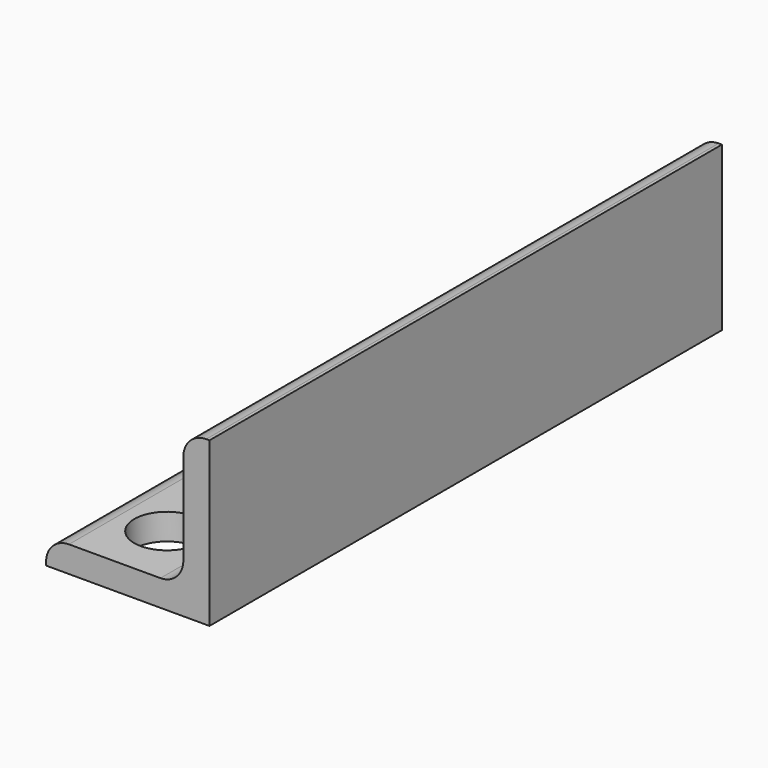
from build123d import *

# Parameters (mm, degrees)
PAD_DEPTH    = 98
SKETCH001_R  = 5
POCKET_DEPTH = 25.001


with BuildPart() as part:
    # Sketch → Pad (new body)
    with BuildSketch(Plane.XZ):
        with BuildLine():
            Line((0, 0), (-25, 0))
            Line((-25, 0), (-25, 0.5))
            ThreePointArc((-21.5, 4), (-23.974874, 2.974874), (-25, 0.5))
            Line((-21.5, 4), (-7.5, 4))
            ThreePointArc((-7.5, 4), (-5.025126, 5.025126), (-4, 7.5))
            Line((-4, 7.5), (-4, 21.5))
            ThreePointArc((-0.5, 25), (-2.974874, 23.974874), (-4, 21.5))
            Line((-0.5, 25), (0, 25))
            Line((0, 25), (0, 0))
        make_face()
    extrude(amount=PAD_DEPTH)

    # Sketch001 → Pocket (cut, through all)
    with BuildSketch(Plane.XY):
        with Locations((-14.5, -10)):
            Circle(SKETCH001_R)
        with Locations((-14.5, -34)):
            Circle(SKETCH001_R)
        with Locations((-14.5, -88)):
            Circle(SKETCH001_R)
        with Locations((-14.5, -64)):
            Circle(SKETCH001_R)
    extrude(amount=POCKET_DEPTH, mode=Mode.SUBTRACT)


solid = part.part
